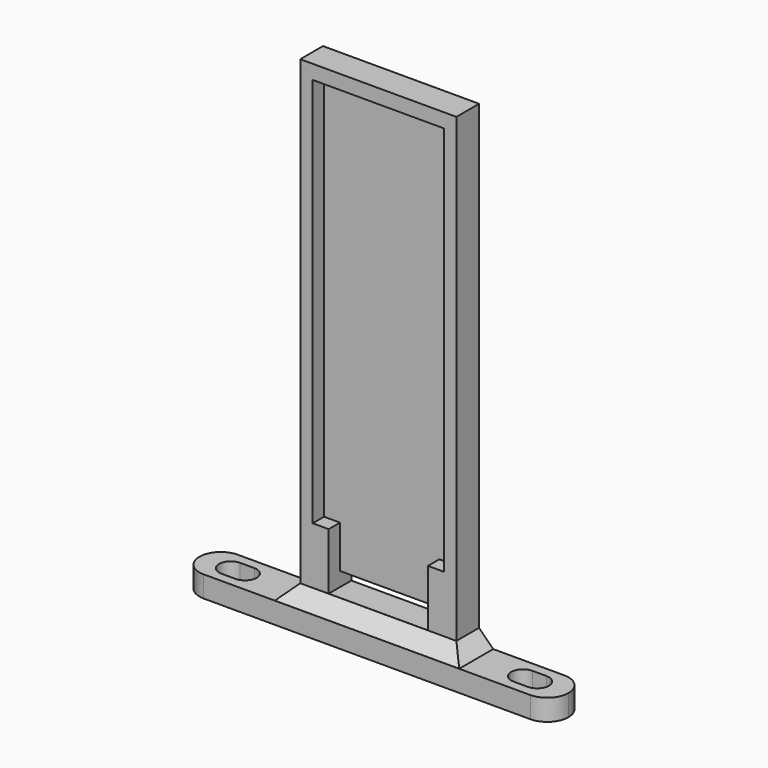
from build123d import *

# Parameters (mm, degrees)
SKETCH_W        = 14
SKETCH_H        = 2
PAD_DEPTH       = 3
SKETCH001_W     = 22
SKETCH001_H     = 70
POCKET_DEPTH    = 2
POCKET001_DEPTH = 2
POCKET002_DEPTH = 3.001
CHAMFER_SIZE    = 1.99
CHAMFER001_SIZE = 1.99
FILLET_R        = 2.99


with BuildPart() as part:
    # Sketch → Pad (new body, symmetric)
    with BuildSketch(Plane.XZ):
        Polygon((-26, 0), (-26, 3), (-11, 3), (-11, 70), (11, 70), (11, 3), (26, 3), (26, 0), align=None)
        with Locations((0, 6)):
            Rectangle(SKETCH_W, SKETCH_H, mode=Mode.SUBTRACT)
    extrude(amount=PAD_DEPTH, both=True)

    # Sketch001 (on Face14 of Pad) → Pocket (cut)
    with BuildSketch(Plane.XZ.offset(3)):
        with Locations((0, 38)):
            Rectangle(SKETCH001_W, SKETCH001_H)
    extrude(amount=-POCKET_DEPTH, mode=Mode.SUBTRACT)

    # Sketch002 (on Face16 of Pocket) → Pocket001 (cut)
    with BuildSketch(Plane.XZ.offset(1)):
        Polygon((-9.25, 68), (9.25, 68), (9.25, 13), (7, 13), (7, 7), (-7, 7), (-7, 13), (-9.25, 13), align=None)
    extrude(amount=-POCKET001_DEPTH, mode=Mode.SUBTRACT)

    # Sketch003 (on Face3 of Pocket001) → Pocket002 (cut, through all)
    with BuildSketch(Plane(origin=(0, 0, 3), x_dir=(-1, 0, 0), z_dir=(0, 0, 1))):
        with BuildLine():
            ThreePointArc((-19.59, -1.65), (-17.94, 0), (-19.59, 1.65))
            Line((-19.59, 1.65), (-21.59, 1.65))
            ThreePointArc((-21.59, 1.65), (-23.24, 0), (-21.59, -1.65))
            Line((-19.59, -1.65), (-21.59, -1.65))
        make_face()
        with BuildLine():
            ThreePointArc((19.59, 1.65), (17.94, 0), (19.59, -1.65))
            Line((19.59, -1.65), (21.59, -1.65))
            ThreePointArc((21.59, -1.65), (23.24, 0), (21.59, 1.65))
            Line((19.59, 1.65), (21.59, 1.65))
        make_face()
    extrude(amount=-POCKET002_DEPTH, mode=Mode.SUBTRACT)

    # Chamfer
    chamfer_edges = [part.edges().sort_by_distance(p)[0] for p in [
        (0, -1, 3),
    ]]
    chamfer(chamfer_edges, length=CHAMFER_SIZE)

    # Chamfer001
    chamfer001_edges = [part.edges().sort_by_distance(p)[0] for p in [
        (-11, 1, 3),
        (11, 1, 3),
    ]]
    chamfer(chamfer001_edges, length=CHAMFER001_SIZE)

    # Fillet
    fillet_edges = [part.edges().sort_by_distance(p)[0] for p in [
        (-26, 3, 1.5),
        (-26, -3, 1.5),
        (26, -3, 1.5),
        (26, 3, 1.5),
    ]]
    fillet(fillet_edges, radius=FILLET_R)


solid = part.part
